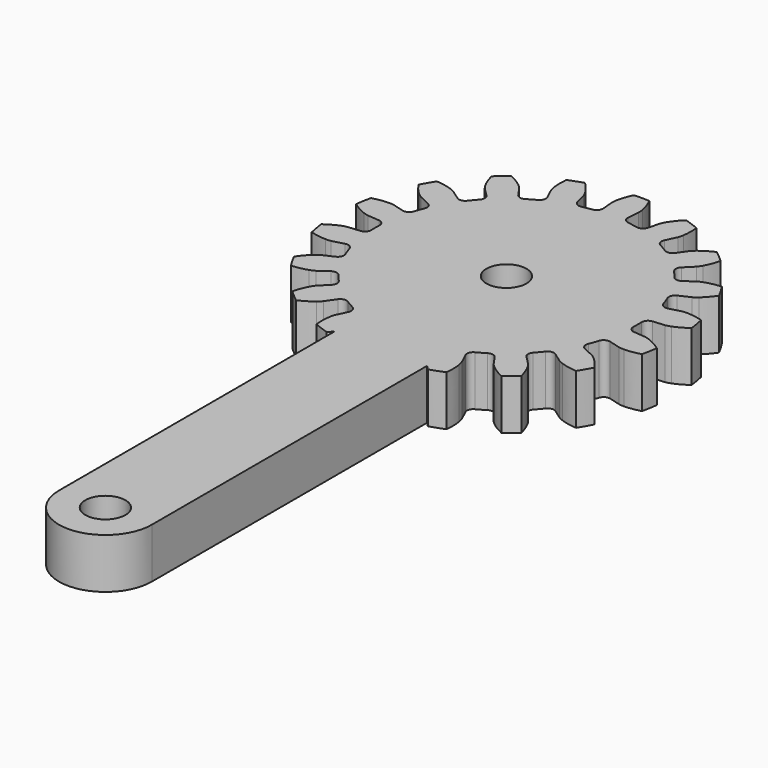
from build123d import *

# Parameters (mm, degrees)
CYLINDER006_R          = 1.6
CYLINDER006_DEPTH      = 30
EXTRUDE001_DEPTH       = 4
PAD004_DEPTH           = 4
CUT003_PLACEMENT_ANGLE = -90.0000000001


with BuildPart() as finger_drill_master002:
    # Cylinder006 → Cylinder006 (new body)
    with BuildSketch(Plane.XY.offset(-8)):
        Circle(CYLINDER006_R)
    extrude(amount=CYLINDER006_DEPTH)


with BuildPart() as clone014:
    # Clone014 base: copy of finger-drill-master002
    add(finger_drill_master002.part)


with BuildPart() as clone014_1:
    # Clone014 placement: moved
    add(clone014.part.moved(Location((40, 0, 0))))


with BuildPart() as gear_drills001:
    # Clone013 base: copy of finger-drill-master002
    add(finger_drill_master002.part)

    # Fusion005: union Clone014
    add(clone014_1.part)


with BuildPart() as extrude001:
    # InvoluteGear001 → Extrude001 (new body)
    with BuildSketch(Plane.XY):
        with BuildLine():
            Line((10.9123364389, -0.9889898601), (11.8536391947, -1.0736474035))
            add(Edge.make_bspline(
                [(11.8536391947, -1.0736474035), (11.9004729513, -1.0753365715), (12.0417566801, -1.0753474223), (12.2778856715, -1.0319970418)],
                knots=[0, 0, 0, 0, 1, 1, 1, 1], degree=3))
            add(Edge.make_bspline(
                [(12.2778856715, -1.0319970418), (12.5610135171, -0.9793695837), (12.9715689189, -0.8647413418), (13.486733046, -0.6175170356)],
                knots=[0, 0, 0, 0, 1, 1, 1, 1], degree=3))
            ThreePointArc((13.486733046, -0.6175170356), (13.5008636743, 0), (13.486733046, 0.6175170356))
            add(Edge.make_bspline(
                [(13.486733046, 0.6175170356), (12.9715689189, 0.8647413418), (12.5610135171, 0.9793695837), (12.2778856715, 1.0319970418)],
                knots=[0, 0, 0, 0, 1, 1, 1, 1], degree=3))
            add(Edge.make_bspline(
                [(12.2778856715, 1.0319970418), (12.0417566801, 1.0753474223), (11.9004729513, 1.0753365715), (11.8536391947, 1.0736474035)],
                knots=[0, 0, 0, 0, 1, 1, 1, 1], degree=3))
            Line((11.8536391947, 1.0736474035), (10.9123364389, 0.9889898601))
            ThreePointArc((10.9123364389, 0.9889898601), (10.5517038642, 1.096810999), (10.3651746967, 1.4237484879))
            ThreePointArc((10.3651746967, 1.4237484879), (10.3035511159, 1.8167940588), (10.2270288375, 2.2072125874))
            ThreePointArc((10.2270288375, 2.2072125874), (10.290489713, 2.5782300658), (10.5924964809, 2.8028923993))
            Line((10.5924964809, 2.8028923993), (11.5059863196, 3.0452848339))
            add(Edge.make_bspline(
                [(11.5059863196, 3.0452848339), (11.5505733845, 3.0597156233), (11.6833403731, 3.1080273081), (11.8904023405, 3.2295242123)],
                knots=[0, 0, 0, 0, 1, 1, 1, 1], degree=3))
            add(Edge.make_bspline(
                [(11.8904023405, 3.2295242123), (12.138455837, 3.3758132726), (12.4850465508, 3.623946803), (12.8845867868, 4.0324581678)],
                knots=[0, 0, 0, 0, 1, 1, 1, 1], degree=3))
            ThreePointArc((12.8845867868, 4.0324581678), (12.6866619689, 4.6175673289), (12.4621802568, 5.193010571))
            add(Edge.make_bspline(
                [(12.4621802568, 5.193010571), (11.8935286354, 5.2491289186), (11.4685275862, 5.2164260143), (11.1844747882, 5.1690442219)],
                knots=[0, 0, 0, 0, 1, 1, 1, 1], degree=3))
            add(Edge.make_bspline(
                [(11.1844747882, 5.1690442219), (10.9477594141, 5.1290193831), (10.8149998479, 5.0806873055), (10.7715682419, 5.0630819187)],
                knots=[0, 0, 0, 0, 1, 1, 1, 1], degree=3))
            Line((10.7715682419, 5.0630819187), (9.9159875735, 4.6615853464))
            ThreePointArc((9.9159875735, 4.6615853464), (9.5402268028, 4.6395604701), (9.2531275137, 4.8829844833))
            ThreePointArc((9.2531275137, 4.8829844833), (9.0607907871, 5.23125), (8.8553523657, 5.5719512497))
            ThreePointArc((8.8553523657, 5.5719512497), (8.7880906309, 5.942298534), (8.9950451186, 6.2567044691))
            Line((8.9950451186, 6.2567044691), (9.770541684, 6.7969107767))
            add(Edge.make_bspline(
                [(9.770541684, 6.7969107767), (9.8075041992, 6.8257209574), (9.9157407894, 6.9165280756), (10.0687610036, 7.1015171836)],
                knots=[0, 0, 0, 0, 1, 1, 1, 1], degree=3))
            add(Edge.make_bspline(
                [(10.0687610036, 7.1015171836), (10.2518212384, 7.3238232265), (10.4926433089, 7.6755334796), (10.728369205, 8.1960594034)],
                knots=[0, 0, 0, 0, 1, 1, 1, 1], degree=3))
            ThreePointArc((10.728369205, 8.1960594034), (10.342261595, 8.6781878899), (9.9345046064, 9.1421503908))
            add(Edge.make_bspline(
                [(9.9345046064, 9.1421503908), (9.3809532688, 9.0003940789), (8.992767971, 8.8243044813), (8.7420511802, 8.6826283819)],
                knots=[0, 0, 0, 0, 1, 1, 1, 1], degree=3))
            add(Edge.make_bspline(
                [(8.7420511802, 8.6826283819), (8.5333007911, 8.5640559101), (8.4250781504, 8.4732321675), (8.3902871877, 8.4418340314)],
                knots=[0, 0, 0, 0, 1, 1, 1, 1], degree=3))
            Line((8.3902871877, 8.4418340314), (7.7236242623, 7.7719248423))
            ThreePointArc((7.7236242623, 7.7719248423), (7.3780575903, 7.6227104759), (7.025016591, 7.7532604848))
            ThreePointArc((7.025016591, 7.7532604848), (6.7251653663, 8.0147399861), (6.4155897075, 8.264630358))
            ThreePointArc((6.4155897075, 8.264630358), (6.2257181204, 8.5896381001), (6.3126585624, 8.9558656407))
            Line((6.3126585624, 8.9558656407), (6.8566255235, 9.7287289682))
            add(Edge.make_bspline(
                [(6.8566255235, 9.7287289682), (6.8815052641, 9.7684436071), (6.9521565257, 9.8907934801), (7.0326784905, 10.1169623754)],
                knots=[0, 0, 0, 0, 1, 1, 1, 1], degree=3))
            add(Edge.make_bspline(
                [(7.0326784905, 10.1169623754), (7.1286656978, 10.3884720112), (7.2346724291, 10.8013375398), (7.2781519631, 11.371094914)],
                knots=[0, 0, 0, 0, 1, 1, 1, 1], degree=3))
            ThreePointArc((7.2781519631, 11.371094914), (6.7504318371, 11.6920909149), (6.2085810829, 11.9886119497))
            add(Edge.make_bspline(
                [(6.2085810829, 11.9886119497), (5.7368964898, 11.6660788816), (5.4323478194, 11.367841595), (5.2452071809, 11.1489594171)],
                knots=[0, 0, 0, 0, 1, 1, 1, 1], degree=3))
            add(Edge.make_bspline(
                [(5.2452071809, 11.1489594171), (5.0896001545, 10.9661409023), (5.0189676871, 10.8437801786), (4.9970136712, 10.8023763717)],
                knots=[0, 0, 0, 0, 1, 1, 1, 1], degree=3))
            Line((4.9970136712, 10.8023763717), (4.5996778766, 9.9448555008))
            ThreePointArc((4.5996778766, 9.9448555008), (4.3259857438, 9.6864490991), (3.9495849892, 9.688378846))
            ThreePointArc((3.9495849892, 9.688378846), (3.5783857495, 9.831534045), (3.2020122465, 9.9604730723))
            ThreePointArc((3.2020122465, 9.9604730723), (2.9124321227, 10.2009405417), (2.8688722185, 10.5748172416))
            Line((2.8688722185, 10.5748172416), (3.1156991319, 11.4871188653))
            add(Edge.make_bspline(
                [(3.1156991319, 11.4871188653), (3.1254952341, 11.5329477909), (3.1500395821, 11.6720832183), (3.1483511603, 11.9121525942)],
                knots=[0, 0, 0, 0, 1, 1, 1, 1], degree=3))
            add(Edge.make_bspline(
                [(3.1483511603, 11.9121525942), (3.145687866, 12.2001177539), (3.104093282, 12.6243408819), (2.9500821804, 13.1746085586)],
                knots=[0, 0, 0, 0, 1, 1, 1, 1], degree=3))
            ThreePointArc((2.9500821804, 13.1746085586), (2.344400374, 13.2957552188), (1.7338110518, 13.3890699744))
            add(Edge.make_bspline(
                [(1.7338110518, 13.3890699744), (1.4008853265, 12.9246623982), (1.2167063478, 12.5402492408), (1.1157137846, 12.2705614055)],
                knots=[0, 0, 0, 0, 1, 1, 1, 1], degree=3))
            add(Edge.make_bspline(
                [(1.1157137846, 12.2705614055), (1.0320186248, 12.0455474587), (1.0074956487, 11.9064082629), (1.0010265579, 11.8599926954)],
                knots=[0, 0, 0, 0, 1, 1, 1, 1], degree=3))
            Line((1.0010265579, 11.8599926954), (0.9209424549, 10.9182898155))
            ThreePointArc((0.9209424549, 10.9182898155), (0.7521361719, 10.5818590042), (0.397775148, 10.454935733))
            ThreePointArc((0.397775148, 10.454935733), (0, 10.4625), (-0.397775148, 10.454935733))
            ThreePointArc((-0.397775148, 10.454935733), (-0.7521361719, 10.5818590042), (-0.9209424549, 10.9182898155))
            Line((-0.9209424549, 10.9182898155), (-1.0010265579, 11.8599926954))
            add(Edge.make_bspline(
                [(-1.0010265579, 11.8599926954), (-1.0074956487, 11.9064082629), (-1.0320186248, 12.0455474587), (-1.1157137846, 12.2705614055)],
                knots=[0, 0, 0, 0, 1, 1, 1, 1], degree=3))
            add(Edge.make_bspline(
                [(-1.1157137846, 12.2705614055), (-1.2167063478, 12.5402492408), (-1.4008853265, 12.9246623982), (-1.7338110518, 13.3890699744)],
                knots=[0, 0, 0, 0, 1, 1, 1, 1], degree=3))
            ThreePointArc((-1.7338110518, 13.3890699744), (-2.344400374, 13.2957552188), (-2.9500821804, 13.1746085586))
            add(Edge.make_bspline(
                [(-2.9500821804, 13.1746085586), (-3.104093282, 12.6243408819), (-3.145687866, 12.2001177539), (-3.1483511603, 11.9121525942)],
                knots=[0, 0, 0, 0, 1, 1, 1, 1], degree=3))
            add(Edge.make_bspline(
                [(-3.1483511603, 11.9121525942), (-3.1500395821, 11.6720832183), (-3.1254952341, 11.5329477909), (-3.1156991319, 11.4871188653)],
                knots=[0, 0, 0, 0, 1, 1, 1, 1], degree=3))
            Line((-3.1156991319, 11.4871188653), (-2.8688722185, 10.5748172416))
            ThreePointArc((-2.8688722185, 10.5748172416), (-2.9124321227, 10.2009405417), (-3.2020122465, 9.9604730723))
            ThreePointArc((-3.2020122465, 9.9604730723), (-3.5783857495, 9.831534045), (-3.9495849892, 9.688378846))
            ThreePointArc((-3.9495849892, 9.688378846), (-4.3259857438, 9.6864490991), (-4.5996778766, 9.9448555008))
            Line((-4.5996778766, 9.9448555008), (-4.9970136712, 10.8023763717))
            add(Edge.make_bspline(
                [(-4.9970136712, 10.8023763717), (-5.0189676871, 10.8437801786), (-5.0896001545, 10.9661409023), (-5.2452071809, 11.1489594171)],
                knots=[0, 0, 0, 0, 1, 1, 1, 1], degree=3))
            add(Edge.make_bspline(
                [(-5.2452071809, 11.1489594171), (-5.4323478194, 11.367841595), (-5.7368964898, 11.6660788816), (-6.2085810829, 11.9886119497)],
                knots=[0, 0, 0, 0, 1, 1, 1, 1], degree=3))
            ThreePointArc((-6.2085810829, 11.9886119497), (-6.7504318371, 11.6920909149), (-7.2781519631, 11.371094914))
            add(Edge.make_bspline(
                [(-7.2781519631, 11.371094914), (-7.2346724291, 10.8013375398), (-7.1286656978, 10.3884720112), (-7.0326784905, 10.1169623754)],
                knots=[0, 0, 0, 0, 1, 1, 1, 1], degree=3))
            add(Edge.make_bspline(
                [(-7.0326784905, 10.1169623754), (-6.9521565257, 9.8907934801), (-6.8815052641, 9.7684436071), (-6.8566255235, 9.7287289682)],
                knots=[0, 0, 0, 0, 1, 1, 1, 1], degree=3))
            Line((-6.8566255235, 9.7287289682), (-6.3126585624, 8.9558656407))
            ThreePointArc((-6.3126585624, 8.9558656407), (-6.2257181204, 8.5896381001), (-6.4155897075, 8.264630358))
            ThreePointArc((-6.4155897075, 8.264630358), (-6.7251653663, 8.0147399861), (-7.025016591, 7.7532604848))
            ThreePointArc((-7.025016591, 7.7532604848), (-7.3780575903, 7.6227104759), (-7.7236242623, 7.7719248423))
            Line((-7.7236242623, 7.7719248423), (-8.3902871877, 8.4418340314))
            add(Edge.make_bspline(
                [(-8.3902871877, 8.4418340314), (-8.4250781504, 8.4732321675), (-8.5333007911, 8.5640559101), (-8.7420511802, 8.6826283819)],
                knots=[0, 0, 0, 0, 1, 1, 1, 1], degree=3))
            add(Edge.make_bspline(
                [(-8.7420511802, 8.6826283819), (-8.992767971, 8.8243044813), (-9.3809532688, 9.0003940789), (-9.9345046064, 9.1421503908)],
                knots=[0, 0, 0, 0, 1, 1, 1, 1], degree=3))
            ThreePointArc((-9.9345046064, 9.1421503908), (-10.342261595, 8.6781878899), (-10.728369205, 8.1960594034))
            add(Edge.make_bspline(
                [(-10.728369205, 8.1960594034), (-10.4926433089, 7.6755334796), (-10.2518212384, 7.3238232265), (-10.0687610036, 7.1015171836)],
                knots=[0, 0, 0, 0, 1, 1, 1, 1], degree=3))
            add(Edge.make_bspline(
                [(-10.0687610036, 7.1015171836), (-9.9157407894, 6.9165280756), (-9.8075041992, 6.8257209574), (-9.770541684, 6.7969107767)],
                knots=[0, 0, 0, 0, 1, 1, 1, 1], degree=3))
            Line((-9.770541684, 6.7969107767), (-8.9950451186, 6.2567044691))
            ThreePointArc((-8.9950451186, 6.2567044691), (-8.7880906309, 5.942298534), (-8.8553523657, 5.5719512497))
            ThreePointArc((-8.8553523657, 5.5719512497), (-9.0607907871, 5.23125), (-9.2531275137, 4.8829844833))
            ThreePointArc((-9.2531275137, 4.8829844833), (-9.5402268028, 4.6395604701), (-9.9159875735, 4.6615853464))
            Line((-9.9159875735, 4.6615853464), (-10.7715682419, 5.0630819187))
            add(Edge.make_bspline(
                [(-10.7715682419, 5.0630819187), (-10.8149998479, 5.0806873055), (-10.9477594141, 5.1290193831), (-11.1844747882, 5.1690442219)],
                knots=[0, 0, 0, 0, 1, 1, 1, 1], degree=3))
            add(Edge.make_bspline(
                [(-11.1844747882, 5.1690442219), (-11.4685275862, 5.2164260143), (-11.8935286354, 5.2491289186), (-12.4621802568, 5.193010571)],
                knots=[0, 0, 0, 0, 1, 1, 1, 1], degree=3))
            ThreePointArc((-12.4621802568, 5.193010571), (-12.6866619689, 4.6175673289), (-12.8845867868, 4.0324581678))
            add(Edge.make_bspline(
                [(-12.8845867868, 4.0324581678), (-12.4850465508, 3.623946803), (-12.138455837, 3.3758132726), (-11.8904023405, 3.2295242123)],
                knots=[0, 0, 0, 0, 1, 1, 1, 1], degree=3))
            add(Edge.make_bspline(
                [(-11.8904023405, 3.2295242123), (-11.6833403731, 3.1080273081), (-11.5505733845, 3.0597156233), (-11.5059863196, 3.0452848339)],
                knots=[0, 0, 0, 0, 1, 1, 1, 1], degree=3))
            Line((-11.5059863196, 3.0452848339), (-10.5924964809, 2.8028923993))
            ThreePointArc((-10.5924964809, 2.8028923993), (-10.290489713, 2.5782300658), (-10.2270288375, 2.2072125874))
            ThreePointArc((-10.2270288375, 2.2072125874), (-10.3035511159, 1.8167940588), (-10.3651746967, 1.4237484879))
            ThreePointArc((-10.3651746967, 1.4237484879), (-10.5517038642, 1.096810999), (-10.9123364389, 0.9889898601))
            Line((-10.9123364389, 0.9889898601), (-11.8536391947, 1.0736474035))
            add(Edge.make_bspline(
                [(-11.8536391947, 1.0736474035), (-11.9004729513, 1.0753365715), (-12.0417566801, 1.0753474223), (-12.2778856715, 1.0319970418)],
                knots=[0, 0, 0, 0, 1, 1, 1, 1], degree=3))
            add(Edge.make_bspline(
                [(-12.2778856715, 1.0319970418), (-12.5610135171, 0.9793695837), (-12.9715689189, 0.8647413418), (-13.486733046, 0.6175170356)],
                knots=[0, 0, 0, 0, 1, 1, 1, 1], degree=3))
            ThreePointArc((-13.486733046, 0.6175170356), (-13.5008636743, 0), (-13.486733046, -0.6175170356))
            add(Edge.make_bspline(
                [(-13.486733046, -0.6175170356), (-12.9715689189, -0.8647413418), (-12.5610135171, -0.9793695837), (-12.2778856715, -1.0319970418)],
                knots=[0, 0, 0, 0, 1, 1, 1, 1], degree=3))
            add(Edge.make_bspline(
                [(-12.2778856715, -1.0319970418), (-12.0417566801, -1.0753474223), (-11.9004729513, -1.0753365715), (-11.8536391947, -1.0736474035)],
                knots=[0, 0, 0, 0, 1, 1, 1, 1], degree=3))
            Line((-11.8536391947, -1.0736474035), (-10.9123364389, -0.9889898601))
            ThreePointArc((-10.9123364389, -0.9889898601), (-10.5517038642, -1.096810999), (-10.3651746967, -1.4237484879))
            ThreePointArc((-10.3651746967, -1.4237484879), (-10.3035511159, -1.8167940588), (-10.2270288375, -2.2072125874))
            ThreePointArc((-10.2270288375, -2.2072125874), (-10.290489713, -2.5782300658), (-10.5924964809, -2.8028923993))
            Line((-10.5924964809, -2.8028923993), (-11.5059863196, -3.0452848339))
            add(Edge.make_bspline(
                [(-11.5059863196, -3.0452848339), (-11.5505733845, -3.0597156233), (-11.6833403731, -3.1080273081), (-11.8904023405, -3.2295242123)],
                knots=[0, 0, 0, 0, 1, 1, 1, 1], degree=3))
            add(Edge.make_bspline(
                [(-11.8904023405, -3.2295242123), (-12.138455837, -3.3758132726), (-12.4850465508, -3.623946803), (-12.8845867868, -4.0324581678)],
                knots=[0, 0, 0, 0, 1, 1, 1, 1], degree=3))
            ThreePointArc((-12.8845867868, -4.0324581678), (-12.6866619689, -4.6175673289), (-12.4621802568, -5.193010571))
            add(Edge.make_bspline(
                [(-12.4621802568, -5.193010571), (-11.8935286354, -5.2491289186), (-11.4685275862, -5.2164260143), (-11.1844747882, -5.1690442219)],
                knots=[0, 0, 0, 0, 1, 1, 1, 1], degree=3))
            add(Edge.make_bspline(
                [(-11.1844747882, -5.1690442219), (-10.9477594141, -5.1290193831), (-10.8149998479, -5.0806873055), (-10.7715682419, -5.0630819187)],
                knots=[0, 0, 0, 0, 1, 1, 1, 1], degree=3))
            Line((-10.7715682419, -5.0630819187), (-9.9159875735, -4.6615853464))
            ThreePointArc((-9.9159875735, -4.6615853464), (-9.5402268028, -4.6395604701), (-9.2531275137, -4.8829844833))
            ThreePointArc((-9.2531275137, -4.8829844833), (-9.0607907871, -5.23125), (-8.8553523657, -5.5719512497))
            ThreePointArc((-8.8553523657, -5.5719512497), (-8.7880906309, -5.942298534), (-8.9950451186, -6.2567044691))
            Line((-8.9950451186, -6.2567044691), (-9.770541684, -6.7969107767))
            add(Edge.make_bspline(
                [(-9.770541684, -6.7969107767), (-9.8075041992, -6.8257209574), (-9.9157407894, -6.9165280756), (-10.0687610036, -7.1015171836)],
                knots=[0, 0, 0, 0, 1, 1, 1, 1], degree=3))
            add(Edge.make_bspline(
                [(-10.0687610036, -7.1015171836), (-10.2518212384, -7.3238232265), (-10.4926433089, -7.6755334796), (-10.728369205, -8.1960594034)],
                knots=[0, 0, 0, 0, 1, 1, 1, 1], degree=3))
            ThreePointArc((-10.728369205, -8.1960594034), (-10.342261595, -8.6781878899), (-9.9345046064, -9.1421503908))
            add(Edge.make_bspline(
                [(-9.9345046064, -9.1421503908), (-9.3809532688, -9.0003940789), (-8.992767971, -8.8243044813), (-8.7420511802, -8.6826283819)],
                knots=[0, 0, 0, 0, 1, 1, 1, 1], degree=3))
            add(Edge.make_bspline(
                [(-8.7420511802, -8.6826283819), (-8.5333007911, -8.5640559101), (-8.4250781504, -8.4732321675), (-8.3902871877, -8.4418340314)],
                knots=[0, 0, 0, 0, 1, 1, 1, 1], degree=3))
            Line((-8.3902871877, -8.4418340314), (-7.7236242623, -7.7719248423))
            ThreePointArc((-7.7236242623, -7.7719248423), (-7.3780575903, -7.6227104759), (-7.025016591, -7.7532604848))
            ThreePointArc((-7.025016591, -7.7532604848), (-6.7251653663, -8.0147399861), (-6.4155897075, -8.264630358))
            ThreePointArc((-6.4155897075, -8.264630358), (-6.2257181204, -8.5896381001), (-6.3126585624, -8.9558656407))
            Line((-6.3126585624, -8.9558656407), (-6.8566255235, -9.7287289682))
            add(Edge.make_bspline(
                [(-6.8566255235, -9.7287289682), (-6.8815052641, -9.7684436071), (-6.9521565257, -9.8907934801), (-7.0326784905, -10.1169623754)],
                knots=[0, 0, 0, 0, 1, 1, 1, 1], degree=3))
            add(Edge.make_bspline(
                [(-7.0326784905, -10.1169623754), (-7.1286656978, -10.3884720112), (-7.2346724291, -10.8013375398), (-7.2781519631, -11.371094914)],
                knots=[0, 0, 0, 0, 1, 1, 1, 1], degree=3))
            ThreePointArc((-7.2781519631, -11.371094914), (-6.7504318371, -11.6920909149), (-6.2085810829, -11.9886119497))
            add(Edge.make_bspline(
                [(-6.2085810829, -11.9886119497), (-5.7368964898, -11.6660788816), (-5.4323478194, -11.367841595), (-5.2452071809, -11.1489594171)],
                knots=[0, 0, 0, 0, 1, 1, 1, 1], degree=3))
            add(Edge.make_bspline(
                [(-5.2452071809, -11.1489594171), (-5.0896001545, -10.9661409023), (-5.0189676871, -10.8437801786), (-4.9970136712, -10.8023763717)],
                knots=[0, 0, 0, 0, 1, 1, 1, 1], degree=3))
            Line((-4.9970136712, -10.8023763717), (-4.5996778766, -9.9448555008))
            ThreePointArc((-4.5996778766, -9.9448555008), (-4.3259857438, -9.6864490991), (-3.9495849892, -9.688378846))
            ThreePointArc((-3.9495849892, -9.688378846), (-3.5783857495, -9.831534045), (-3.2020122465, -9.9604730723))
            ThreePointArc((-3.2020122465, -9.9604730723), (-2.9124321227, -10.2009405417), (-2.8688722185, -10.5748172416))
            Line((-2.8688722185, -10.5748172416), (-3.1156991319, -11.4871188653))
            add(Edge.make_bspline(
                [(-3.1156991319, -11.4871188653), (-3.1254952341, -11.5329477909), (-3.1500395821, -11.6720832183), (-3.1483511603, -11.9121525942)],
                knots=[0, 0, 0, 0, 1, 1, 1, 1], degree=3))
            add(Edge.make_bspline(
                [(-3.1483511603, -11.9121525942), (-3.145687866, -12.2001177539), (-3.104093282, -12.6243408819), (-2.9500821804, -13.1746085586)],
                knots=[0, 0, 0, 0, 1, 1, 1, 1], degree=3))
            ThreePointArc((-2.9500821804, -13.1746085586), (-2.344400374, -13.2957552188), (-1.7338110518, -13.3890699744))
            add(Edge.make_bspline(
                [(-1.7338110518, -13.3890699744), (-1.4008853265, -12.9246623982), (-1.2167063478, -12.5402492408), (-1.1157137846, -12.2705614055)],
                knots=[0, 0, 0, 0, 1, 1, 1, 1], degree=3))
            add(Edge.make_bspline(
                [(-1.1157137846, -12.2705614055), (-1.0320186248, -12.0455474587), (-1.0074956487, -11.9064082629), (-1.0010265579, -11.8599926954)],
                knots=[0, 0, 0, 0, 1, 1, 1, 1], degree=3))
            Line((-1.0010265579, -11.8599926954), (-0.9209424549, -10.9182898155))
            ThreePointArc((-0.9209424549, -10.9182898155), (-0.7521361719, -10.5818590042), (-0.397775148, -10.454935733))
            ThreePointArc((-0.397775148, -10.454935733), (0, -10.4625), (0.397775148, -10.454935733))
            ThreePointArc((0.397775148, -10.454935733), (0.7521361719, -10.5818590042), (0.9209424549, -10.9182898155))
            Line((0.9209424549, -10.9182898155), (1.0010265579, -11.8599926954))
            add(Edge.make_bspline(
                [(1.0010265579, -11.8599926954), (1.0074956487, -11.9064082629), (1.0320186248, -12.0455474587), (1.1157137846, -12.2705614055)],
                knots=[0, 0, 0, 0, 1, 1, 1, 1], degree=3))
            add(Edge.make_bspline(
                [(1.1157137846, -12.2705614055), (1.2167063478, -12.5402492408), (1.4008853265, -12.9246623982), (1.7338110518, -13.3890699744)],
                knots=[0, 0, 0, 0, 1, 1, 1, 1], degree=3))
            ThreePointArc((1.7338110518, -13.3890699744), (2.344400374, -13.2957552188), (2.9500821804, -13.1746085586))
            add(Edge.make_bspline(
                [(2.9500821804, -13.1746085586), (3.104093282, -12.6243408819), (3.145687866, -12.2001177539), (3.1483511603, -11.9121525942)],
                knots=[0, 0, 0, 0, 1, 1, 1, 1], degree=3))
            add(Edge.make_bspline(
                [(3.1483511603, -11.9121525942), (3.1500395821, -11.6720832183), (3.1254952341, -11.5329477909), (3.1156991319, -11.4871188653)],
                knots=[0, 0, 0, 0, 1, 1, 1, 1], degree=3))
            Line((3.1156991319, -11.4871188653), (2.8688722185, -10.5748172416))
            ThreePointArc((2.8688722185, -10.5748172416), (2.9124321227, -10.2009405417), (3.2020122465, -9.9604730723))
            ThreePointArc((3.2020122465, -9.9604730723), (3.5783857495, -9.831534045), (3.9495849892, -9.688378846))
            ThreePointArc((3.9495849892, -9.688378846), (4.3259857438, -9.6864490991), (4.5996778766, -9.9448555008))
            Line((4.5996778766, -9.9448555008), (4.9970136712, -10.8023763717))
            add(Edge.make_bspline(
                [(4.9970136712, -10.8023763717), (5.0189676871, -10.8437801786), (5.0896001545, -10.9661409023), (5.2452071809, -11.1489594171)],
                knots=[0, 0, 0, 0, 1, 1, 1, 1], degree=3))
            add(Edge.make_bspline(
                [(5.2452071809, -11.1489594171), (5.4323478194, -11.367841595), (5.7368964898, -11.6660788816), (6.2085810829, -11.9886119497)],
                knots=[0, 0, 0, 0, 1, 1, 1, 1], degree=3))
            ThreePointArc((6.2085810829, -11.9886119497), (6.7504318371, -11.6920909149), (7.2781519631, -11.371094914))
            add(Edge.make_bspline(
                [(7.2781519631, -11.371094914), (7.2346724291, -10.8013375398), (7.1286656978, -10.3884720112), (7.0326784905, -10.1169623754)],
                knots=[0, 0, 0, 0, 1, 1, 1, 1], degree=3))
            add(Edge.make_bspline(
                [(7.0326784905, -10.1169623754), (6.9521565257, -9.8907934801), (6.8815052641, -9.7684436071), (6.8566255235, -9.7287289682)],
                knots=[0, 0, 0, 0, 1, 1, 1, 1], degree=3))
            Line((6.8566255235, -9.7287289682), (6.3126585624, -8.9558656407))
            ThreePointArc((6.3126585624, -8.9558656407), (6.2257181204, -8.5896381001), (6.4155897075, -8.264630358))
            ThreePointArc((6.4155897075, -8.264630358), (6.7251653663, -8.0147399861), (7.025016591, -7.7532604848))
            ThreePointArc((7.025016591, -7.7532604848), (7.3780575903, -7.6227104759), (7.7236242623, -7.7719248423))
            Line((7.7236242623, -7.7719248423), (8.3902871877, -8.4418340314))
            add(Edge.make_bspline(
                [(8.3902871877, -8.4418340314), (8.4250781504, -8.4732321675), (8.5333007911, -8.5640559101), (8.7420511802, -8.6826283819)],
                knots=[0, 0, 0, 0, 1, 1, 1, 1], degree=3))
            add(Edge.make_bspline(
                [(8.7420511802, -8.6826283819), (8.992767971, -8.8243044813), (9.3809532688, -9.0003940789), (9.9345046064, -9.1421503908)],
                knots=[0, 0, 0, 0, 1, 1, 1, 1], degree=3))
            ThreePointArc((9.9345046064, -9.1421503908), (10.342261595, -8.6781878899), (10.728369205, -8.1960594034))
            add(Edge.make_bspline(
                [(10.728369205, -8.1960594034), (10.4926433089, -7.6755334796), (10.2518212384, -7.3238232265), (10.0687610036, -7.1015171836)],
                knots=[0, 0, 0, 0, 1, 1, 1, 1], degree=3))
            add(Edge.make_bspline(
                [(10.0687610036, -7.1015171836), (9.9157407894, -6.9165280756), (9.8075041992, -6.8257209574), (9.770541684, -6.7969107767)],
                knots=[0, 0, 0, 0, 1, 1, 1, 1], degree=3))
            Line((9.770541684, -6.7969107767), (8.9950451186, -6.2567044691))
            ThreePointArc((8.9950451186, -6.2567044691), (8.7880906309, -5.942298534), (8.8553523657, -5.5719512497))
            ThreePointArc((8.8553523657, -5.5719512497), (9.0607907871, -5.23125), (9.2531275137, -4.8829844833))
            ThreePointArc((9.2531275137, -4.8829844833), (9.5402268028, -4.6395604701), (9.9159875735, -4.6615853464))
            Line((9.9159875735, -4.6615853464), (10.7715682419, -5.0630819187))
            add(Edge.make_bspline(
                [(10.7715682419, -5.0630819187), (10.8149998479, -5.0806873055), (10.9477594141, -5.1290193831), (11.1844747882, -5.1690442219)],
                knots=[0, 0, 0, 0, 1, 1, 1, 1], degree=3))
            add(Edge.make_bspline(
                [(11.1844747882, -5.1690442219), (11.4685275862, -5.2164260143), (11.8935286354, -5.2491289186), (12.4621802568, -5.193010571)],
                knots=[0, 0, 0, 0, 1, 1, 1, 1], degree=3))
            ThreePointArc((12.4621802568, -5.193010571), (12.6866619689, -4.6175673289), (12.8845867868, -4.0324581678))
            add(Edge.make_bspline(
                [(12.8845867868, -4.0324581678), (12.4850465508, -3.623946803), (12.138455837, -3.3758132726), (11.8904023405, -3.2295242123)],
                knots=[0, 0, 0, 0, 1, 1, 1, 1], degree=3))
            add(Edge.make_bspline(
                [(11.8904023405, -3.2295242123), (11.6833403731, -3.1080273081), (11.5505733845, -3.0597156233), (11.5059863196, -3.0452848339)],
                knots=[0, 0, 0, 0, 1, 1, 1, 1], degree=3))
            Line((11.5059863196, -3.0452848339), (10.5924964809, -2.8028923993))
            ThreePointArc((10.5924964809, -2.8028923993), (10.290489713, -2.5782300658), (10.2270288375, -2.2072125874))
            ThreePointArc((10.2270288375, -2.2072125874), (10.3035511159, -1.8167940588), (10.3651746967, -1.4237484879))
            ThreePointArc((10.3651746967, -1.4237484879), (10.5517038642, -1.096810999), (10.9123364389, -0.9889898601))
        make_face()
    extrude(amount=EXTRUDE001_DEPTH)


with BuildPart() as right_gear:
    # Sketch004 → Pad004 (new body)
    with BuildSketch(Plane.XY):
        with BuildLine():
            ThreePointArc((0, 3.7), (-3.7, 0), (0, -3.7))
            Line((0, -3.7), (40, -3.7))
            ThreePointArc((40, -3.7), (43.7, 0), (40, 3.7))
            Line((0, 3.7), (40, 3.7))
        make_face()
    extrude(amount=PAD004_DEPTH)

    # Fusion006: union Extrude001
    add(extrude001.part)

    # Cut003: cut gear-drills001
    add(gear_drills001.part, mode=Mode.SUBTRACT)


with BuildPart() as right_gear_1:
    # Cut003 placement: moved
    add(right_gear.part.moved(Location((12.4, 16, 4.5))).rotate(Axis((12.4, 16, 4.5), (0, 0, 1)), CUT003_PLACEMENT_ANGLE))


solid = right_gear_1.part
